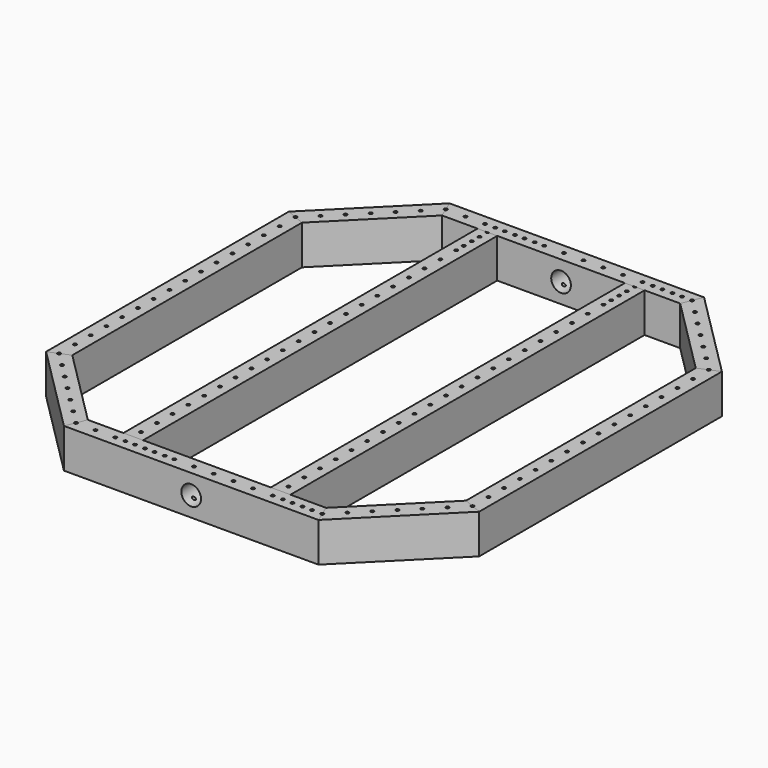
from build123d import *

# Parameters (mm, degrees)
F0_R     = 2.0701
F1_DEPTH = 50.8
F2_DEPTH = 50.8
F3_R     = 12.7
F4_DEPTH = 621.927147


with BuildPart() as f1:
    # F0 (on Top) → F1 (new body)
    with BuildSketch(Plane.XY):
        with BuildLine():
            Line((255.912523, -191.292193), (266.7, -195.760512))
            Line((266.7, -195.760512), (266.7, 195.760512))
            Line((266.7, 195.760512), (255.912523, 191.292193))
            ThreePointArc((255.912523, 191.292193), (256.030324, 190.903856), (256.0701, 190.5))
            ThreePointArc((256.0701, 190.5), (254.403856, 188.469676), (252.087477, 189.707807))
            Line((252.087477, 189.707807), (241.3, 185.239488))
            Line((241.3, 185.239488), (241.3, -185.239488))
            Line((241.3, -185.239488), (252.087477, -189.707807))
            ThreePointArc((252.087477, -189.707807), (254.403856, -188.469676), (256.0701, -190.5))
            ThreePointArc((256.0701, -190.5), (256.030324, -190.903856), (255.912523, -191.292193))
        make_face()
        with Locations((254, -165.1)):
            Circle(F0_R, mode=Mode.SUBTRACT)
        with Locations((254, -139.7)):
            Circle(F0_R, mode=Mode.SUBTRACT)
        with Locations((254, -114.3)):
            Circle(F0_R, mode=Mode.SUBTRACT)
        with Locations((254, -88.9)):
            Circle(F0_R, mode=Mode.SUBTRACT)
        with Locations((254, -63.5)):
            Circle(F0_R, mode=Mode.SUBTRACT)
        with Locations((254, -38.1)):
            Circle(F0_R, mode=Mode.SUBTRACT)
        with Locations((254, -12.7)):
            Circle(F0_R, mode=Mode.SUBTRACT)
        with Locations((254, 12.7)):
            Circle(F0_R, mode=Mode.SUBTRACT)
        with Locations((254, 38.1)):
            Circle(F0_R, mode=Mode.SUBTRACT)
        with Locations((254, 63.5)):
            Circle(F0_R, mode=Mode.SUBTRACT)
        with Locations((254, 88.9)):
            Circle(F0_R, mode=Mode.SUBTRACT)
        with Locations((254, 114.3)):
            Circle(F0_R, mode=Mode.SUBTRACT)
        with Locations((254, 139.7)):
            Circle(F0_R, mode=Mode.SUBTRACT)
        with Locations((254, 165.1)):
            Circle(F0_R, mode=Mode.SUBTRACT)
        with BuildLine():
            Line((-277.487477, -189.707807), (-266.7, -185.239488))
            Line((-266.7, -185.239488), (-266.7, 185.239488))
            Line((-266.7, 185.239488), (-277.487477, 189.707807))
            ThreePointArc((-277.487477, 189.707807), (-280.192193, 188.587477), (-281.312523, 191.292193))
            Line((-281.312523, 191.292193), (-292.1, 195.760512))
            Line((-292.1, 195.760512), (-292.1, -195.760512))
            Line((-292.1, -195.760512), (-281.312523, -191.292193))
            ThreePointArc((-281.312523, -191.292193), (-280.192193, -188.587477), (-277.487477, -189.707807))
        make_face()
        with Locations((-279.4, -165.1)):
            Circle(F0_R, mode=Mode.SUBTRACT)
        with Locations((-279.4, -139.7)):
            Circle(F0_R, mode=Mode.SUBTRACT)
        with Locations((-279.4, -114.3)):
            Circle(F0_R, mode=Mode.SUBTRACT)
        with Locations((-279.4, -88.9)):
            Circle(F0_R, mode=Mode.SUBTRACT)
        with Locations((-279.4, -63.5)):
            Circle(F0_R, mode=Mode.SUBTRACT)
        with Locations((-279.4, -38.1)):
            Circle(F0_R, mode=Mode.SUBTRACT)
        with Locations((-279.4, -12.7)):
            Circle(F0_R, mode=Mode.SUBTRACT)
        with Locations((-279.4, 12.7)):
            Circle(F0_R, mode=Mode.SUBTRACT)
        with Locations((-279.4, 38.1)):
            Circle(F0_R, mode=Mode.SUBTRACT)
        with Locations((-279.4, 63.5)):
            Circle(F0_R, mode=Mode.SUBTRACT)
        with Locations((-279.4, 88.9)):
            Circle(F0_R, mode=Mode.SUBTRACT)
        with Locations((-279.4, 114.3)):
            Circle(F0_R, mode=Mode.SUBTRACT)
        with Locations((-279.4, 139.7)):
            Circle(F0_R, mode=Mode.SUBTRACT)
        with Locations((-279.4, 165.1)):
            Circle(F0_R, mode=Mode.SUBTRACT)
        with BuildLine():
            Line((-120.463073, -285.563073), (-166.376414, -285.563073))
            Line((-166.376414, -285.563073), (-170.844734, -296.35055))
            ThreePointArc((-170.844734, -296.35055), (-169.915701, -297.112988), (-169.566827, -298.263073))
            ThreePointArc((-169.566827, -298.263073), (-170.486841, -299.984299), (-172.42912, -300.175596))
            Line((-172.42912, -300.175596), (-176.897439, -310.963073))
            Line((-176.897439, -310.963073), (151.497439, -310.963073))
            Line((151.497439, -310.963073), (147.02912, -300.175596))
            ThreePointArc((147.02912, -300.175596), (144.324404, -299.055266), (145.444734, -296.35055))
            Line((145.444734, -296.35055), (140.976414, -285.563073))
            Line((140.976414, -285.563073), (95.063073, -285.563073))
            Line((95.063073, -285.563073), (69.663073, -285.563073))
            Line((69.663073, -285.563073), (-95.063073, -285.563073))
            Line((-95.063073, -285.563073), (-120.463073, -285.563073))
        make_face()
        with Locations((-146.236927, -298.263073)):
            Circle(F0_R, mode=Mode.SUBTRACT)
        with Locations((-120.836927, -298.263073)):
            Circle(F0_R, mode=Mode.SUBTRACT)
        with Locations((-107.763073, -298.263073)):
            Circle(F0_R, mode=Mode.SUBTRACT)
        with Locations((-95.436927, -298.263073)):
            Circle(F0_R, mode=Mode.SUBTRACT)
        with Locations((-82.363073, -298.263073)):
            Circle(F0_R, mode=Mode.SUBTRACT)
        with Locations((-70.036927, -298.263073)):
            Circle(F0_R, mode=Mode.SUBTRACT)
        with Locations((-56.963073, -298.263073)):
            Circle(F0_R, mode=Mode.SUBTRACT)
        with Locations((-44.636927, -298.263073)):
            Circle(F0_R, mode=Mode.SUBTRACT)
        with Locations((-19.236927, -298.263073)):
            Circle(F0_R, mode=Mode.SUBTRACT)
        with Locations((6.163073, -298.263073)):
            Circle(F0_R, mode=Mode.SUBTRACT)
        with Locations((31.563073, -298.263073)):
            Circle(F0_R, mode=Mode.SUBTRACT)
        with Locations((56.963073, -298.263073)):
            Circle(F0_R, mode=Mode.SUBTRACT)
        with Locations((82.363073, -298.263073)):
            Circle(F0_R, mode=Mode.SUBTRACT)
        with Locations((95.436927, -298.263073)):
            Circle(F0_R, mode=Mode.SUBTRACT)
        with Locations((107.763073, -298.263073)):
            Circle(F0_R, mode=Mode.SUBTRACT)
        with Locations((120.836927, -298.263073)):
            Circle(F0_R, mode=Mode.SUBTRACT)
        with Locations((133.163073, -298.263073)):
            Circle(F0_R, mode=Mode.SUBTRACT)
        with BuildLine():
            Line((-170.844734, 296.35055), (-166.376414, 285.563073))
            Line((-166.376414, 285.563073), (-120.463073, 285.563073))
            Line((-120.463073, 285.563073), (-109.799135, 285.563073))
            Line((-109.799135, 285.563073), (-105.727012, 285.563073))
            Line((-105.727012, 285.563073), (-95.063073, 285.563073))
            Line((-95.063073, 285.563073), (69.663073, 285.563073))
            Line((69.663073, 285.563073), (80.327012, 285.563073))
            Line((80.327012, 285.563073), (84.399135, 285.563073))
            Line((84.399135, 285.563073), (95.063073, 285.563073))
            Line((95.063073, 285.563073), (140.976414, 285.563073))
            Line((140.976414, 285.563073), (145.444734, 296.35055))
            ThreePointArc((145.444734, 296.35055), (144.324404, 299.055266), (147.02912, 300.175596))
            Line((147.02912, 300.175596), (151.497439, 310.963073))
            Line((151.497439, 310.963073), (-176.897439, 310.963073))
            Line((-176.897439, 310.963073), (-172.42912, 300.175596))
            ThreePointArc((-172.42912, 300.175596), (-170.486841, 299.984299), (-169.566827, 298.263073))
            ThreePointArc((-169.566827, 298.263073), (-169.915701, 297.112988), (-170.844734, 296.35055))
        make_face()
        with Locations((-146.236927, 298.263073)):
            Circle(F0_R, mode=Mode.SUBTRACT)
        with Locations((-120.836927, 298.263073)):
            Circle(F0_R, mode=Mode.SUBTRACT)
        with Locations((-107.763073, 298.263073)):
            Circle(F0_R, mode=Mode.SUBTRACT)
        with Locations((-95.436927, 298.263073)):
            Circle(F0_R, mode=Mode.SUBTRACT)
        with Locations((-82.363073, 298.263073)):
            Circle(F0_R, mode=Mode.SUBTRACT)
        with Locations((-70.036927, 298.263073)):
            Circle(F0_R, mode=Mode.SUBTRACT)
        with Locations((-56.963073, 298.263073)):
            Circle(F0_R, mode=Mode.SUBTRACT)
        with Locations((-44.636927, 298.263073)):
            Circle(F0_R, mode=Mode.SUBTRACT)
        with Locations((-19.236927, 298.263073)):
            Circle(F0_R, mode=Mode.SUBTRACT)
        with Locations((6.163073, 298.263073)):
            Circle(F0_R, mode=Mode.SUBTRACT)
        with Locations((31.563073, 298.263073)):
            Circle(F0_R, mode=Mode.SUBTRACT)
        with Locations((56.963073, 298.263073)):
            Circle(F0_R, mode=Mode.SUBTRACT)
        with Locations((82.363073, 298.263073)):
            Circle(F0_R, mode=Mode.SUBTRACT)
        with Locations((95.436927, 298.263073)):
            Circle(F0_R, mode=Mode.SUBTRACT)
        with Locations((107.763073, 298.263073)):
            Circle(F0_R, mode=Mode.SUBTRACT)
        with Locations((120.836927, 298.263073)):
            Circle(F0_R, mode=Mode.SUBTRACT)
        with Locations((133.163073, 298.263073)):
            Circle(F0_R, mode=Mode.SUBTRACT)
    extrude(amount=F1_DEPTH)

    # F3 (on face) → F4 (cut, through all)
    with BuildSketch(Plane.XZ.offset(310.963073)):
        with Locations((-12.7, 25.4)):
            Circle(F3_R)
    extrude(amount=-F4_DEPTH, mode=Mode.SUBTRACT)


with BuildPart() as f2:
    # F0 (on Top) → F2 (new body)
    with BuildSketch(Plane.XY):
        with BuildLine():
            Line((-277.487477, 189.707807), (-266.7, 185.239488))
            Line((-266.7, 185.239488), (-166.376414, 285.563073))
            Line((-166.376414, 285.563073), (-170.844734, 296.35055))
            ThreePointArc((-170.844734, 296.35055), (-173.54945, 297.47088), (-172.42912, 300.175596))
            Line((-172.42912, 300.175596), (-176.897439, 310.963073))
            Line((-176.897439, 310.963073), (-292.1, 195.760512))
            Line((-292.1, 195.760512), (-281.312523, 191.292193))
            ThreePointArc((-281.312523, 191.292193), (-278.996144, 192.530324), (-277.3299, 190.5))
            ThreePointArc((-277.3299, 190.5), (-277.369676, 190.096144), (-277.487477, 189.707807))
        make_face()
        with Locations((-261.439488, 208.460512)):
            Circle(F0_R, mode=Mode.SUBTRACT)
        with Locations((-243.478976, 226.421024)):
            Circle(F0_R, mode=Mode.SUBTRACT)
        with Locations((-225.518463, 244.381537)):
            Circle(F0_R, mode=Mode.SUBTRACT)
        with Locations((-207.557951, 262.342049)):
            Circle(F0_R, mode=Mode.SUBTRACT)
        with Locations((-189.597439, 280.302561)):
            Circle(F0_R, mode=Mode.SUBTRACT)
        with BuildLine():
            Line((266.7, 195.760512), (151.497439, 310.963073))
            Line((151.497439, 310.963073), (147.02912, 300.175596))
            ThreePointArc((147.02912, 300.175596), (147.958152, 299.413159), (148.307027, 298.263073))
            ThreePointArc((148.307027, 298.263073), (147.387012, 296.541848), (145.444734, 296.35055))
            Line((145.444734, 296.35055), (140.976414, 285.563073))
            Line((140.976414, 285.563073), (241.3, 185.239488))
            Line((241.3, 185.239488), (252.087477, 189.707807))
            ThreePointArc((252.087477, 189.707807), (253.207807, 192.412523), (255.912523, 191.292193))
            Line((255.912523, 191.292193), (266.7, 195.760512))
        make_face()
        with Locations((218.078976, 226.421024)):
            Circle(F0_R, mode=Mode.SUBTRACT)
        with Locations((236.039488, 208.460512)):
            Circle(F0_R, mode=Mode.SUBTRACT)
        with Locations((182.157951, 262.342049)):
            Circle(F0_R, mode=Mode.SUBTRACT)
        with Locations((164.197439, 280.302561)):
            Circle(F0_R, mode=Mode.SUBTRACT)
        with Locations((200.118463, 244.381537)):
            Circle(F0_R, mode=Mode.SUBTRACT)
        with BuildLine():
            Line((69.663073, 0), (69.663073, -285.563073))
            Line((69.663073, -285.563073), (95.063073, -285.563073))
            Line((95.063073, -285.563073), (95.063073, 0))
            Line((95.063073, 0), (95.063073, 285.563073))
            Line((95.063073, 285.563073), (84.399135, 285.563073))
            ThreePointArc((84.399135, 285.563073), (82.363073, 283.866827), (80.327012, 285.563073))
            Line((80.327012, 285.563073), (69.663073, 285.563073))
            Line((69.663073, 285.563073), (69.663073, 0))
        make_face()
        with Locations((82.363073, -272.863073)):
            Circle(F0_R, mode=Mode.SUBTRACT)
        with Locations((82.363073, -247.463073)):
            Circle(F0_R, mode=Mode.SUBTRACT)
        with Locations((82.363073, -222.063073)):
            Circle(F0_R, mode=Mode.SUBTRACT)
        with Locations((82.363073, -196.663073)):
            Circle(F0_R, mode=Mode.SUBTRACT)
        with Locations((82.363073, -171.263073)):
            Circle(F0_R, mode=Mode.SUBTRACT)
        with Locations((82.363073, -145.863073)):
            Circle(F0_R, mode=Mode.SUBTRACT)
        with Locations((82.363073, -120.463073)):
            Circle(F0_R, mode=Mode.SUBTRACT)
        with Locations((82.363073, -95.063073)):
            Circle(F0_R, mode=Mode.SUBTRACT)
        with Locations((82.363073, -69.663073)):
            Circle(F0_R, mode=Mode.SUBTRACT)
        with Locations((82.363073, -44.263073)):
            Circle(F0_R, mode=Mode.SUBTRACT)
        with Locations((82.363073, -18.863073)):
            Circle(F0_R, mode=Mode.SUBTRACT)
        with Locations((82.363073, 6.536927)):
            Circle(F0_R, mode=Mode.SUBTRACT)
        with Locations((82.363073, 31.936927)):
            Circle(F0_R, mode=Mode.SUBTRACT)
        with Locations((82.363073, 57.336927)):
            Circle(F0_R, mode=Mode.SUBTRACT)
        with Locations((82.363073, 82.736927)):
            Circle(F0_R, mode=Mode.SUBTRACT)
        with Locations((82.363073, 108.136927)):
            Circle(F0_R, mode=Mode.SUBTRACT)
        with Locations((82.363073, 133.536927)):
            Circle(F0_R, mode=Mode.SUBTRACT)
        with Locations((82.363073, 158.936927)):
            Circle(F0_R, mode=Mode.SUBTRACT)
        with Locations((82.363073, 184.336927)):
            Circle(F0_R, mode=Mode.SUBTRACT)
        with Locations((82.363073, 209.736927)):
            Circle(F0_R, mode=Mode.SUBTRACT)
        with Locations((82.363073, 235.136927)):
            Circle(F0_R, mode=Mode.SUBTRACT)
        with Locations((82.363073, 247.463073)):
            Circle(F0_R, mode=Mode.SUBTRACT)
        with Locations((82.363073, 260.536927)):
            Circle(F0_R, mode=Mode.SUBTRACT)
        with Locations((82.363073, 272.863073)):
            Circle(F0_R, mode=Mode.SUBTRACT)
        with BuildLine():
            Line((147.02912, -300.175596), (151.497439, -310.963073))
            Line((151.497439, -310.963073), (266.7, -195.760512))
            Line((266.7, -195.760512), (255.912523, -191.292193))
            ThreePointArc((255.912523, -191.292193), (253.207807, -192.412523), (252.087477, -189.707807))
            Line((252.087477, -189.707807), (241.3, -185.239488))
            Line((241.3, -185.239488), (140.976414, -285.563073))
            Line((140.976414, -285.563073), (145.444734, -296.35055))
            ThreePointArc((145.444734, -296.35055), (147.387012, -296.541848), (148.307027, -298.263073))
            ThreePointArc((148.307027, -298.263073), (147.958152, -299.413159), (147.02912, -300.175596))
        make_face()
        with Locations((164.197439, -280.302561)):
            Circle(F0_R, mode=Mode.SUBTRACT)
        with Locations((182.157951, -262.342049)):
            Circle(F0_R, mode=Mode.SUBTRACT)
        with Locations((200.118463, -244.381537)):
            Circle(F0_R, mode=Mode.SUBTRACT)
        with Locations((218.078976, -226.421024)):
            Circle(F0_R, mode=Mode.SUBTRACT)
        with Locations((236.039488, -208.460512)):
            Circle(F0_R, mode=Mode.SUBTRACT)
        with BuildLine():
            Line((-166.376414, -285.563073), (-266.7, -185.239488))
            Line((-266.7, -185.239488), (-277.487477, -189.707807))
            ThreePointArc((-277.487477, -189.707807), (-277.369676, -190.096144), (-277.3299, -190.5))
            ThreePointArc((-277.3299, -190.5), (-278.996144, -192.530324), (-281.312523, -191.292193))
            Line((-281.312523, -191.292193), (-292.1, -195.760512))
            Line((-292.1, -195.760512), (-176.897439, -310.963073))
            Line((-176.897439, -310.963073), (-172.42912, -300.175596))
            ThreePointArc((-172.42912, -300.175596), (-173.54945, -297.47088), (-170.844734, -296.35055))
            Line((-170.844734, -296.35055), (-166.376414, -285.563073))
        make_face()
        with Locations((-225.518463, -244.381537)):
            Circle(F0_R, mode=Mode.SUBTRACT)
        with Locations((-189.597439, -280.302561)):
            Circle(F0_R, mode=Mode.SUBTRACT)
        with Locations((-207.557951, -262.342049)):
            Circle(F0_R, mode=Mode.SUBTRACT)
        with Locations((-261.439488, -208.460512)):
            Circle(F0_R, mode=Mode.SUBTRACT)
        with Locations((-243.478976, -226.421024)):
            Circle(F0_R, mode=Mode.SUBTRACT)
        with BuildLine():
            Line((-120.463073, 0), (-120.463073, -285.563073))
            Line((-120.463073, -285.563073), (-95.063073, -285.563073))
            Line((-95.063073, -285.563073), (-95.063073, 0))
            Line((-95.063073, 0), (-95.063073, 285.563073))
            Line((-95.063073, 285.563073), (-105.727012, 285.563073))
            ThreePointArc((-105.727012, 285.563073), (-107.763073, 283.866827), (-109.799135, 285.563073))
            Line((-109.799135, 285.563073), (-120.463073, 285.563073))
            Line((-120.463073, 285.563073), (-120.463073, 0))
        make_face()
        with Locations((-107.763073, -272.863073)):
            Circle(F0_R, mode=Mode.SUBTRACT)
        with Locations((-107.763073, -247.463073)):
            Circle(F0_R, mode=Mode.SUBTRACT)
        with Locations((-107.763073, -222.063073)):
            Circle(F0_R, mode=Mode.SUBTRACT)
        with Locations((-107.763073, -196.663073)):
            Circle(F0_R, mode=Mode.SUBTRACT)
        with Locations((-107.763073, -171.263073)):
            Circle(F0_R, mode=Mode.SUBTRACT)
        with Locations((-107.763073, -145.863073)):
            Circle(F0_R, mode=Mode.SUBTRACT)
        with Locations((-107.763073, -120.463073)):
            Circle(F0_R, mode=Mode.SUBTRACT)
        with Locations((-107.763073, -95.063073)):
            Circle(F0_R, mode=Mode.SUBTRACT)
        with Locations((-107.763073, -69.663073)):
            Circle(F0_R, mode=Mode.SUBTRACT)
        with Locations((-107.763073, -44.263073)):
            Circle(F0_R, mode=Mode.SUBTRACT)
        with Locations((-107.763073, -18.863073)):
            Circle(F0_R, mode=Mode.SUBTRACT)
        with Locations((-107.763073, 6.536927)):
            Circle(F0_R, mode=Mode.SUBTRACT)
        with Locations((-107.763073, 31.936927)):
            Circle(F0_R, mode=Mode.SUBTRACT)
        with Locations((-107.763073, 57.336927)):
            Circle(F0_R, mode=Mode.SUBTRACT)
        with Locations((-107.763073, 82.736927)):
            Circle(F0_R, mode=Mode.SUBTRACT)
        with Locations((-107.763073, 108.136927)):
            Circle(F0_R, mode=Mode.SUBTRACT)
        with Locations((-107.763073, 133.536927)):
            Circle(F0_R, mode=Mode.SUBTRACT)
        with Locations((-107.763073, 158.936927)):
            Circle(F0_R, mode=Mode.SUBTRACT)
        with Locations((-107.763073, 184.336927)):
            Circle(F0_R, mode=Mode.SUBTRACT)
        with Locations((-107.763073, 209.736927)):
            Circle(F0_R, mode=Mode.SUBTRACT)
        with Locations((-107.763073, 235.136927)):
            Circle(F0_R, mode=Mode.SUBTRACT)
        with Locations((-107.763073, 247.463073)):
            Circle(F0_R, mode=Mode.SUBTRACT)
        with Locations((-107.763073, 260.536927)):
            Circle(F0_R, mode=Mode.SUBTRACT)
        with Locations((-107.763073, 272.863073)):
            Circle(F0_R, mode=Mode.SUBTRACT)
    extrude(amount=F2_DEPTH)


solid = Compound([f1.part, f2.part])
